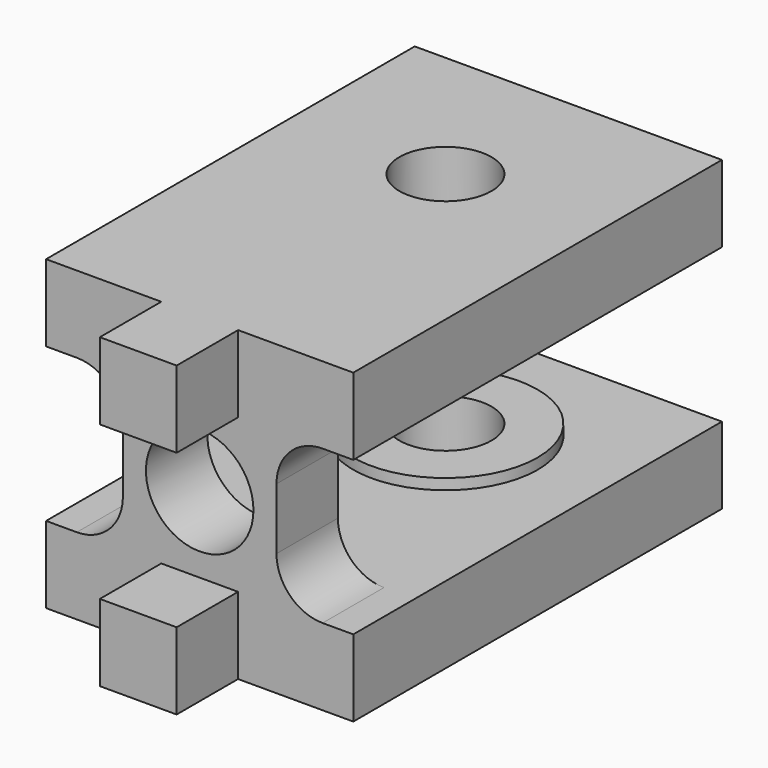
from build123d import *

# Parameters (mm, degrees)
BOX007_W              = 11
BOX007_H              = 7
BOX007_DEPTH          = 10
FILLET_R              = 3
ARRAY_COUNT           = 2
ARRAY_ANGLE           = 180
ARRAY_PLACEMENT_ANGLE = 90
CYLINDER004_R         = 3
CYLINDER004_DEPTH     = 30
CYLINDER_R            = 3.5
CYLINDER_DEPTH        = 15
CYLINDER006_R         = 6
CYLINDER006_DEPTH     = 4
CYLINDER005_R         = 6
CYLINDER005_DEPTH     = 4
BOX001_W              = 5
BOX001_H              = 10
BOX001_DEPTH          = 5
BOX002_W              = 20
BOX002_H              = 25
BOX002_DEPTH          = 5
BOX_W                 = 20
BOX_H                 = 5
BOX_DEPTH             = 20


with BuildPart() as array:
    # Box007 → Box007 (new body)
    with BuildSketch(Plane(origin=(10, 5, -5), x_dir=(1, 0, 0), z_dir=(0, 0, 1))):
        with Locations((5.5, 3.5)):
            Rectangle(BOX007_W, BOX007_H)
    extrude(amount=BOX007_DEPTH)


with BuildPart() as array_1:
    # BaseFeature placement: moved
    add(array.part.moved(Location((-10, -5, 5))))

    # Fillet
    fillet_edges = [array_1.edges().sort_by_distance(p)[0] for p in [
        (5.5, 0, 10),
        (5.5, 0, 0),
    ]]
    fillet(fillet_edges, radius=FILLET_R)


with BuildPart() as array_2:
    # Body placement: moved
    add(array_1.part.moved(Location((-5, 5, 0))))

    # Array: Array ×2 about axis
    array_axis = Axis((0, 0, 0), (0, 0, 1))


with BuildPart() as array_3:
    add(array_2.part)
    for i in range(1, ARRAY_COUNT):
        add(array_2.part.rotate(array_axis, i * ARRAY_ANGLE / (ARRAY_COUNT - 1)))


with BuildPart() as array_4:
    # Array placement: moved
    add(array_3.part.moved(Location((0, -3, -5))).rotate(Axis((0, -3, -5), (0, 0, 1)), ARRAY_PLACEMENT_ANGLE))


with BuildPart() as cilindro004:
    # Cylinder004 → Cylinder004 (new body)
    with BuildSketch(Plane(origin=(0, 15, -15), x_dir=(1, 0, 0), z_dir=(0, 0, 1))):
        Circle(CYLINDER004_R)
    extrude(amount=CYLINDER004_DEPTH)


with BuildPart() as cilindro:
    # Cylinder → Cylinder (new body)
    with BuildSketch(Plane.XZ.offset(-5)):
        Circle(CYLINDER_R)
    extrude(amount=CYLINDER_DEPTH)


with BuildPart() as obj1:
    # Cylinder006 → Cylinder006 (new body)
    with BuildSketch(Plane.XY.offset(4.3)):
        Circle(CYLINDER006_R)
    extrude(amount=CYLINDER006_DEPTH)


with BuildPart() as fusion003:
    # Cylinder005 → Cylinder005 (new body)
    with BuildSketch(Plane.XY.offset(-8.3)):
        Circle(CYLINDER005_R)
    extrude(amount=CYLINDER005_DEPTH)

    # Fusion003: union obj1
    add(obj1.part)


with BuildPart() as fusion003_1:
    # Fusion003 placement: moved
    add(fusion003.part.moved(Location((0, 15, 0))))


with BuildPart() as pin0:
    # Box001 → Box001 (new body)
    with BuildSketch(Plane(origin=(-2.5, -10, 5), x_dir=(1, 0, 0), z_dir=(0, 0, 1))):
        with Locations((2.5, 5)):
            Rectangle(BOX001_W, BOX001_H)
    extrude(amount=BOX001_DEPTH)


with BuildPart() as pin001:
    # Clone base: copy of pin0
    add(pin0.part)


with BuildPart() as pin001_1:
    # Clone placement: moved
    add(pin001.part.moved(Location((0, 0, -15))))


with BuildPart() as pared1:
    # Box002 → Box002 (new body)
    with BuildSketch(Plane(origin=(-10, 0, 5), x_dir=(1, 0, 0), z_dir=(0, 0, 1))):
        with Locations((10, 12.5)):
            Rectangle(BOX002_W, BOX002_H)
    extrude(amount=BOX002_DEPTH)


with BuildPart() as pared002:
    # Clone001 base: copy of pared1
    add(pared1.part)


with BuildPart() as pared002_1:
    # Clone001 placement: moved
    add(pared002.part.moved(Location((0, 0, -15))))


with BuildPart() as cut003:
    # Box → Box (new body)
    with BuildSketch(Plane(origin=(-10, -5, -10), x_dir=(1, 0, 0), z_dir=(0, 0, 1))):
        with Locations((10, 2.5)):
            Rectangle(BOX_W, BOX_H)
    extrude(amount=BOX_DEPTH)

    # Fusion: union pin0, pin001, pared1, pared002
    add(pin0.part)
    add(pin001_1.part)
    add(pared1.part)
    add(pared002_1.part)

    # Fusion004: union Fusion003
    add(fusion003_1.part)

    # Cut001: cut Cilindro
    add(cilindro.part, mode=Mode.SUBTRACT)

    # Cut002: cut Cilindro004
    add(cilindro004.part, mode=Mode.SUBTRACT)

    # Cut003: cut Array
    add(array_4.part, mode=Mode.SUBTRACT)


solid = cut003.part
